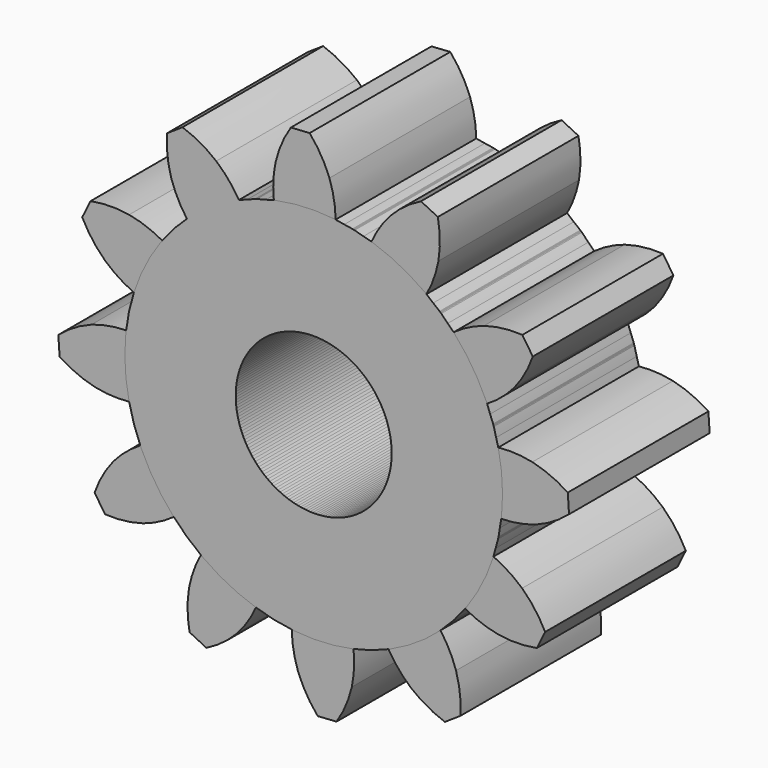
from build123d import *

# Parameters (mm, degrees)
F0_R     = 11.106856
F1_DEPTH = 25
F2_COUNT = 12


with BuildPart() as f1:
    # F0 (on Front) → F1 (new body)
    with BuildSketch(Plane.XZ):
        with BuildLine():
            ThreePointArc((-5.670162, 26.255204), (-16.869841, -20.902032), (26.8605, 0))
            ThreePointArc((26.8605, 0), (20.066286, 17.855828), (3.120762, 26.678593))
            ThreePointArc((3.120762, 26.678593), (-1.292159, 26.829402), (-5.670162, 26.255204))
        make_face()
        Circle(F0_R, mode=Mode.SUBTRACT)
        with BuildLine():
            ThreePointArc((-5.670162, 26.255204), (-1.292159, 26.829402), (3.120762, 26.678593))
            ThreePointArc((3.120762, 26.678593), (2.880056, 29.175152), (2.241055, 31.600524))
            ThreePointArc((2.241055, 31.600524), (1.042282, 34.083718), (-0.57498, 36.317051))
            Line((-0.57498, 36.317051), (-3.24726, 36.141901))
            ThreePointArc((-3.24726, 36.141901), (-4.559177, 33.716579), (-5.423573, 31.098157))
            ThreePointArc((-5.423573, 31.098157), (-5.736839, 28.686353), (-5.670162, 26.255204))
        make_face()
        with BuildLine():
            ThreePointArc((-5.670162, 26.255204), (-16.869841, -20.902032), (26.8605, 0))
            ThreePointArc((26.8605, 0), (20.066286, 17.855828), (3.120762, 26.678593))
            ThreePointArc((3.120762, 26.678593), (-1.292159, 26.829402), (-5.670162, 26.255204))
        make_face()
        Circle(F0_R, mode=Mode.SUBTRACT)
    extrude(amount=F1_DEPTH)


with BuildPart() as f2_1:
    # F2: instance of F1
    add(f1.part.rotate(Axis((0, 0, 0), (0, 1, 0)), 1 * 360 / F2_COUNT))


with BuildPart() as f2_2:
    # F2: instance of F1
    add(f1.part.rotate(Axis((0, 0, 0), (0, 1, 0)), 2 * 360 / F2_COUNT))


with BuildPart() as f2_3:
    # F2: instance of F1
    add(f1.part.rotate(Axis((0, 0, 0), (0, 1, 0)), 3 * 360 / F2_COUNT))


with BuildPart() as f2_4:
    # F2: instance of F1
    add(f1.part.rotate(Axis((0, 0, 0), (0, 1, 0)), 4 * 360 / F2_COUNT))


with BuildPart() as f2_5:
    # F2: instance of F1
    add(f1.part.rotate(Axis((0, 0, 0), (0, 1, 0)), 5 * 360 / F2_COUNT))


with BuildPart() as f2_6:
    # F2: instance of F1
    add(f1.part.rotate(Axis((0, 0, 0), (0, 1, 0)), 6 * 360 / F2_COUNT))


with BuildPart() as f2_7:
    # F2: instance of F1
    add(f1.part.rotate(Axis((0, 0, 0), (0, 1, 0)), 7 * 360 / F2_COUNT))


with BuildPart() as f2_8:
    # F2: instance of F1
    add(f1.part.rotate(Axis((0, 0, 0), (0, 1, 0)), 8 * 360 / F2_COUNT))


with BuildPart() as f2_9:
    # F2: instance of F1
    add(f1.part.rotate(Axis((0, 0, 0), (0, 1, 0)), 9 * 360 / F2_COUNT))


with BuildPart() as f2_10:
    # F2: instance of F1
    add(f1.part.rotate(Axis((0, 0, 0), (0, 1, 0)), 10 * 360 / F2_COUNT))


with BuildPart() as f2_11:
    # F2: instance of F1
    add(f1.part.rotate(Axis((0, 0, 0), (0, 1, 0)), 11 * 360 / F2_COUNT))


solid = Compound([f1.part, f2_1.part, f2_2.part, f2_3.part, f2_4.part, f2_5.part, f2_6.part, f2_7.part, f2_8.part, f2_9.part, f2_10.part, f2_11.part])
